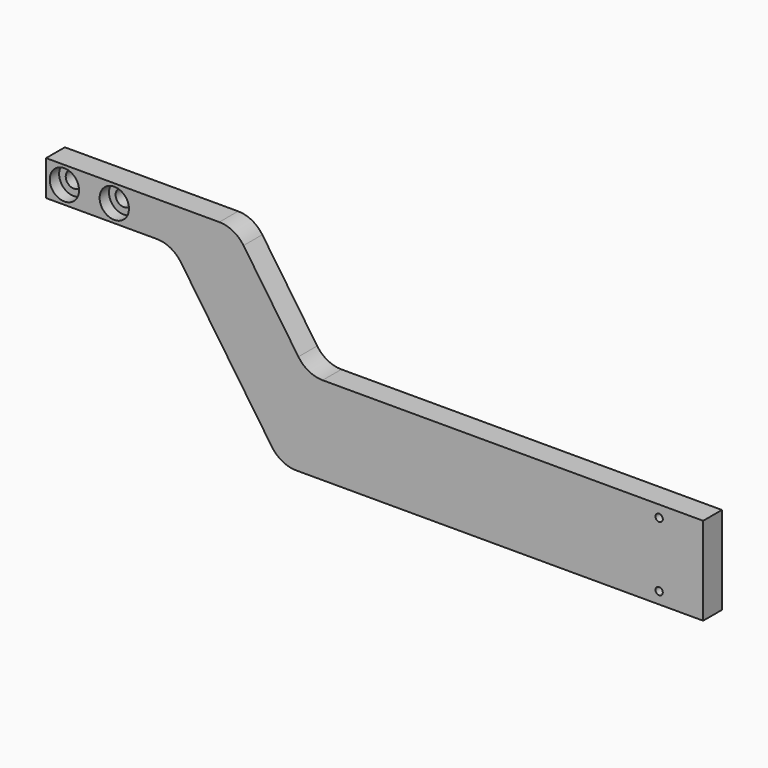
from build123d import *

# Parameters (mm, degrees)
F0_R     = 1.25
F0_R_2   = 2.75
F1_DEPTH = 8
F2_R     = 5
F3_DEPTH = 4


with BuildPart() as f1:
    # F0 (on Front) → F1 (new body)
    with BuildSketch(Plane.XZ):
        with BuildLine():
            Line((67.5, -15), (67.5, 15))
            Line((67.5, 15), (-62.229646, 15))
            ThreePointArc((-62.229646, 15), (-66.892095, 16.153443), (-70.47897, 19.347686))
            Line((-70.47897, 19.347686), (-89.187697, 46.652314))
            ThreePointArc((-89.187697, 46.652314), (-92.774572, 49.846557), (-97.437021, 51))
            Line((-97.437021, 51), (-156.5, 51))
            Line((-156.5, 51), (-156.5, 39))
            Line((-156.5, 39), (-118.770354, 39))
            ThreePointArc((-118.770354, 39), (-114.107905, 37.846557), (-110.52103, 34.652314))
            Line((-110.52103, 34.652314), (-79.47897, -10.652314))
            ThreePointArc((-79.47897, -10.652314), (-75.892095, -13.846557), (-71.229646, -15))
            Line((-71.229646, -15), (67.5, -15))
        make_face()
        with Locations((52.5, -11)):
            Circle(F0_R, mode=Mode.SUBTRACT)
        with Locations((52.5, 11)):
            Circle(F0_R, mode=Mode.SUBTRACT)
        with Locations((-150.25, 45)):
            Circle(F0_R_2, mode=Mode.SUBTRACT)
        with Locations((-133.25, 45)):
            Circle(F0_R_2, mode=Mode.SUBTRACT)
    extrude(amount=F1_DEPTH)

    # F2 (on face) → F3 (cut)
    with BuildSketch(Plane.XZ.offset(8)):
        with Locations((-150.25, 45)):
            Circle(F2_R)
        with Locations((-133.25, 45)):
            Circle(F2_R)
    extrude(amount=-F3_DEPTH, mode=Mode.SUBTRACT)


solid = f1.part
